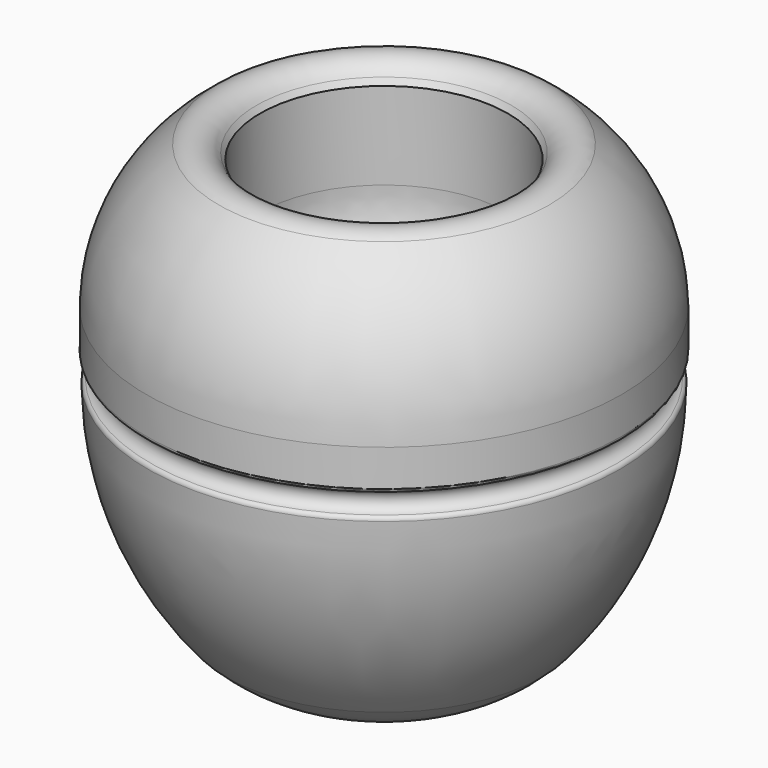
from build123d import *


with BuildPart() as f1:
    # F0 (on Front) → F1 (revolve)
    with BuildSketch(Plane.XZ):
        with BuildLine():
            Line((2, 11.531617), (2, 0.786037))
            Line((2, 0.786037), (3.074869, 0))
            Line((3.074869, 0), (3.936842, 0))
            ThreePointArc((3.936842, 0), (5.735946, 0.750081), (7.281171, 1.93822))
            ThreePointArc((7.281171, 1.93822), (9.970603, 6.449288), (10.936969, 11.611546))
            ThreePointArc((10.936969, 11.611546), (10.898506, 11.731236), (10.796218, 11.804327))
            ThreePointArc((10.796218, 11.804327), (10.444864, 12.305144), (10.841235, 12.771146))
            ThreePointArc((10.841235, 12.771146), (10.955317, 12.840847), (11, 12.966849))
            Line((11, 12.966849), (11, 14.6681))
            ThreePointArc((11, 14.6681), (10.093794, 18.374387), (7.640677, 21.296713))
            ThreePointArc((7.640677, 21.296713), (6.69669, 21.512904), (5.903471, 20.957338))
            Line((5.903471, 20.957338), (5.736564, 20.679994))
            Line((5.736564, 20.679994), (5.736564, 16.64491))
            ThreePointArc((5.736564, 16.64491), (4.798669, 13.408378), (2, 11.531617))
        make_face()
    revolve(axis=Axis((0, 0, 8.175557), (0, 0, -1)))


solid = f1.part
